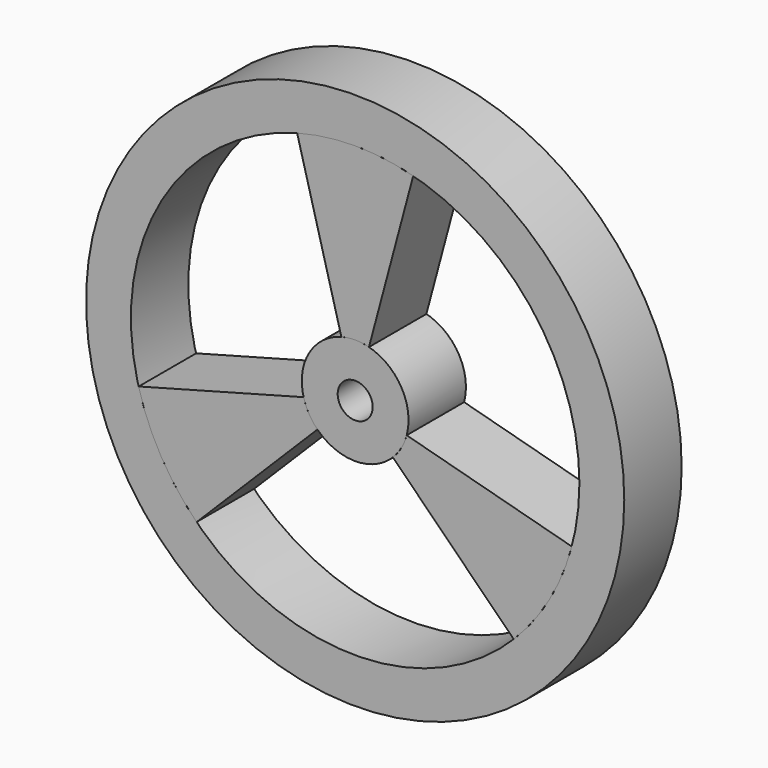
from build123d import *

# Parameters (mm, degrees)
F0_R     = 15
F0_R_2   = 12.5
F0_R_3   = 2.975
F0_R_4   = 0.975
F1_DEPTH = 4
F3_DEPTH = 4
F4_COUNT = 3


with BuildPart() as f1:
    # F0 (on Front) → F1 (new body)
    with BuildSketch(Plane.XZ):
        Circle(F0_R)
        Circle(F0_R_2, mode=Mode.SUBTRACT)
        Circle(F0_R_3)
        Circle(F0_R_4, mode=Mode.SUBTRACT)
    extrude(amount=F1_DEPTH)


with BuildPart() as f3:
    # F2 (on face) → F3 (new body)
    with BuildSketch(Plane.XZ.offset(4)):
        with BuildLine():
            ThreePointArc((-0.769987, 2.873629), (0, 2.975), (0.769987, 2.873629))
            Line((0.769987, 2.873629), (3.235238, 12.074073))
            ThreePointArc((3.235238, 12.074073), (0, 12.5), (-3.235238, 12.074073))
            Line((-3.235238, 12.074073), (-0.769987, 2.873629))
        make_face()
    extrude(amount=-F3_DEPTH)


with BuildPart() as f4_1:
    # F4: instance of F3
    add(f3.part.rotate(Axis((0, 0, 0), (0, -1, 0)), 1 * 360 / F4_COUNT))


with BuildPart() as f4_2:
    # F4: instance of F3
    add(f3.part.rotate(Axis((0, 0, 0), (0, -1, 0)), 2 * 360 / F4_COUNT))


solid = Compound([f1.part, f3.part, f4_1.part, f4_2.part])
